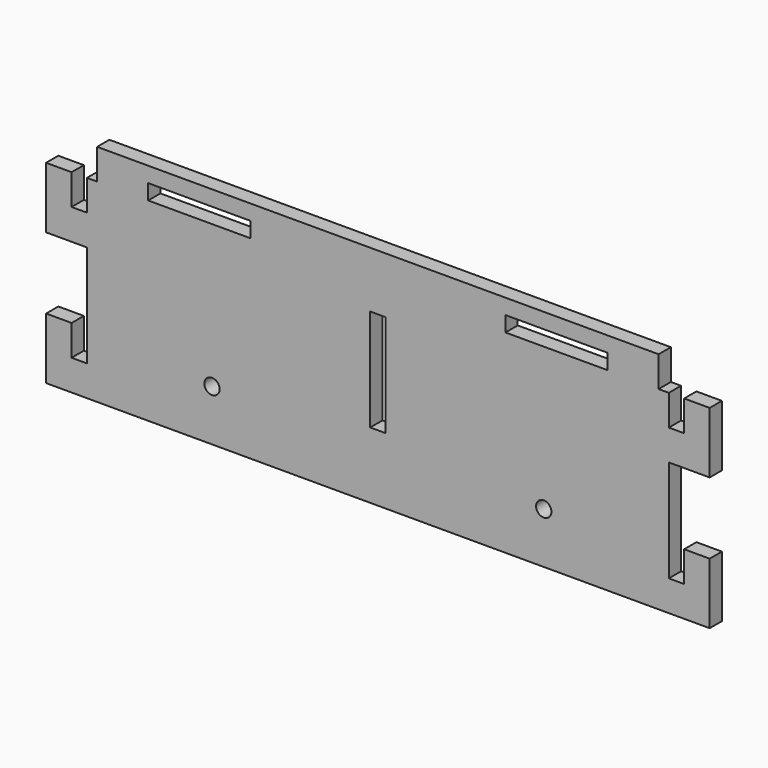
from build123d import *

# Parameters (mm, degrees)
F0_R     = 1.5
F0_W     = 20
F0_H     = 3
F0_W_2   = 3
F0_H_2   = 20
F1_DEPTH = 1.5


with BuildPart() as f1:
    # F0 (on Front) → F1 (new body, symmetric)
    with BuildSketch(Plane.XZ):
        Polygon((55, 34), (-55, 34), (-55, 28), (-57, 28), (-57, 22), (-60, 22), (-60, 28), (-65, 28), (-65, 22), (-65, 16), (-57, 16), (-57, -4), (-60, -4), (-60, 2), (-65, 2), (-65, -4), (-65, -10), (65, -10), (65, -4), (65, 2), (60, 2), (60, -4), (57, -4), (57, 16), (65, 16), (65, 22), (65, 28), (60, 28), (60, 22), (57, 22), (57, 28), (55, 28), align=None)
        with Locations((-32.5, 0)):
            Circle(F0_R, mode=Mode.SUBTRACT)
        with Locations((32.5, 0)):
            Circle(F0_R, mode=Mode.SUBTRACT)
        with Locations((-35, 29.5)):
            Rectangle(F0_W, F0_H, mode=Mode.SUBTRACT)
        with Locations((0, 13)):
            Rectangle(F0_W_2, F0_H_2, mode=Mode.SUBTRACT)
        with Locations((35, 29.5)):
            Rectangle(F0_W, F0_H, mode=Mode.SUBTRACT)
    extrude(amount=F1_DEPTH, both=True)


solid = f1.part
